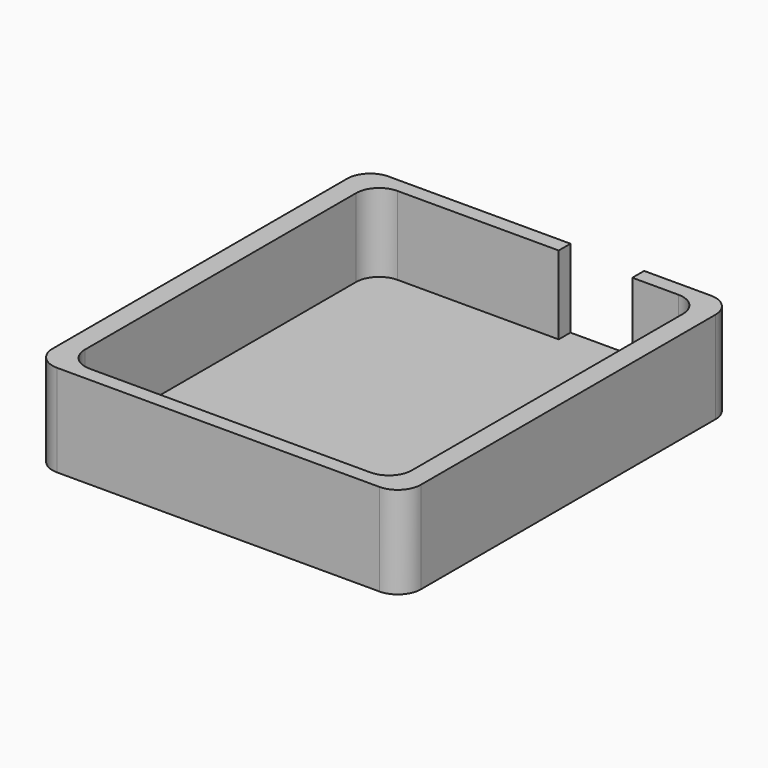
from build123d import *

# Parameters (mm, degrees)
F0_W     = 80
F0_H     = 90
F1_DEPTH = 20
F2_W     = 71
F2_H     = 83.6
F3_DEPTH = 17
F4_W     = 16
F4_H     = 3.2
F5_DEPTH = 17
F6_R     = 5
F7_R     = 5


with BuildPart() as f1:
    # F0 (on Top) → F1 (new body)
    with BuildSketch(Plane.XY):
        Rectangle(F0_W, F0_H)
    extrude(amount=F1_DEPTH)

    # F2 (on face) → F3 (cut)
    with BuildSketch(Plane.XY.offset(20)):
        Rectangle(F2_W, F2_H)
    extrude(amount=-F3_DEPTH, mode=Mode.SUBTRACT)

    # F4 (on face) → F5 (cut, through all)
    with BuildSketch(Plane.XY.offset(20)):
        with Locations((12.5, 43.4)):
            Rectangle(F4_W, F4_H)
    extrude(amount=-F5_DEPTH, mode=Mode.SUBTRACT)

    # F6
    f6_edges = [f1.edges().sort_by_distance(p)[0] for p in [
        (40, 45, 10),
        (40, -45, 10),
        (-40, -45, 10),
        (-40, 45, 10),
    ]]
    fillet(f6_edges, radius=F6_R)

    # F7
    f7_edges = [f1.edges().sort_by_distance(p)[0] for p in [
        (35.5, -41.8, 11.5),
        (35.5, 41.8, 11.5),
        (-35.5, 41.8, 11.5),
        (-35.5, -41.8, 11.5),
    ]]
    fillet(f7_edges, radius=F7_R)


solid = f1.part
